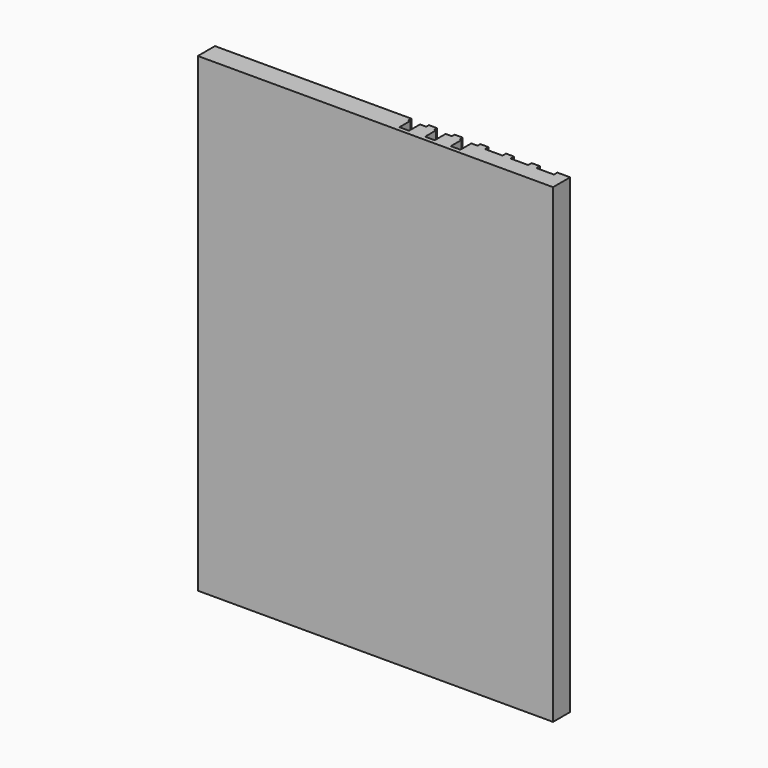
from build123d import *

# Parameters (mm, degrees)
SKETCH_W     = 166
SKETCH_H     = 10
PAD_DEPTH    = 220
SKETCH001_W  = 8.2
SKETCH001_H  = 2
POCKET_DEPTH = 220.001


with BuildPart() as part:
    # Sketch → Pad (new body)
    with BuildSketch(Plane.XY):
        with Locations((0, 5)):
            Rectangle(SKETCH_W, SKETCH_H)
    extrude(amount=PAD_DEPTH)

    # Sketch001 → Pocket (cut, through all)
    with BuildSketch(Plane.XY.offset(220)):
        with Locations((72.9, 9)):
            Rectangle(SKETCH001_W, SKETCH001_H)
        with Locations((60.9, 9)):
            Rectangle(SKETCH001_W, SKETCH001_H)
        Polygon((32.8, 10), (41, 10), (41, 8.4), (38.1, 8.4), (38.1, 2), (33.6, 2), (33.6, 8.4), (32.8, 8.4), align=None)
        with Locations((48.9, 9)):
            Rectangle(SKETCH001_W, SKETCH001_H)
        Polygon((20.8, 10), (20.8, 8.4), (21.6, 8.4), (21.6, 2), (26.1, 2), (26.1, 8.4), (29, 8.4), (29, 10), align=None)
        Polygon((17, 10), (17, 8.4), (14.1, 8.4), (14.1, 2), (9.6, 2), (9.6, 8.4), (8.8, 8.4), (8.8, 10), align=None)
    extrude(amount=-POCKET_DEPTH, mode=Mode.SUBTRACT)


solid = part.part
